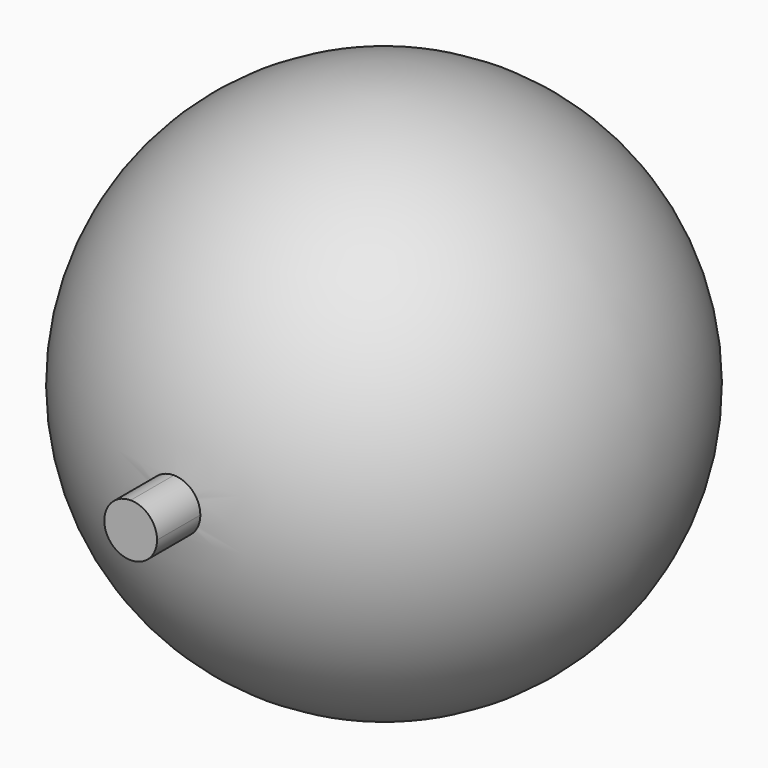
from build123d import *

# Parameters (mm, degrees)
F2_DEPTH = 38.1


with BuildPart() as f1:
    # F0 (on Front) → F1 (revolve)
    with BuildSketch(Plane.XZ):
        with BuildLine():
            Line((0, -3.175), (0, -31.75))
            ThreePointArc((0, -31.75), (31.75, 0), (0, 31.75))
            Line((0, 31.75), (0, 3.175))
            ThreePointArc((0, 3.175), (2.2450640303, 2.2450640303), (3.175, 0))
            ThreePointArc((3.175, 0), (2.2450640303, -2.2450640303), (0, -3.175))
        make_face()
    revolve(axis=Axis((0, 0, 0), (0, 0, -1)))

    # F0 (on Front) → F2 (join)
    with BuildSketch(Plane.XZ):
        with BuildLine():
            ThreePointArc((0, 3.175), (-3.175, 0), (0, -3.175))
            Line((0, -3.175), (0, 3.175))
        make_face()
        with BuildLine():
            Line((0, 3.175), (0, -3.175))
            ThreePointArc((0, -3.175), (2.2450640303, -2.2450640303), (3.175, 0))
            ThreePointArc((3.175, 0), (2.2450640303, 2.2450640303), (0, 3.175))
        make_face()
    extrude(amount=F2_DEPTH)


solid = f1.part
